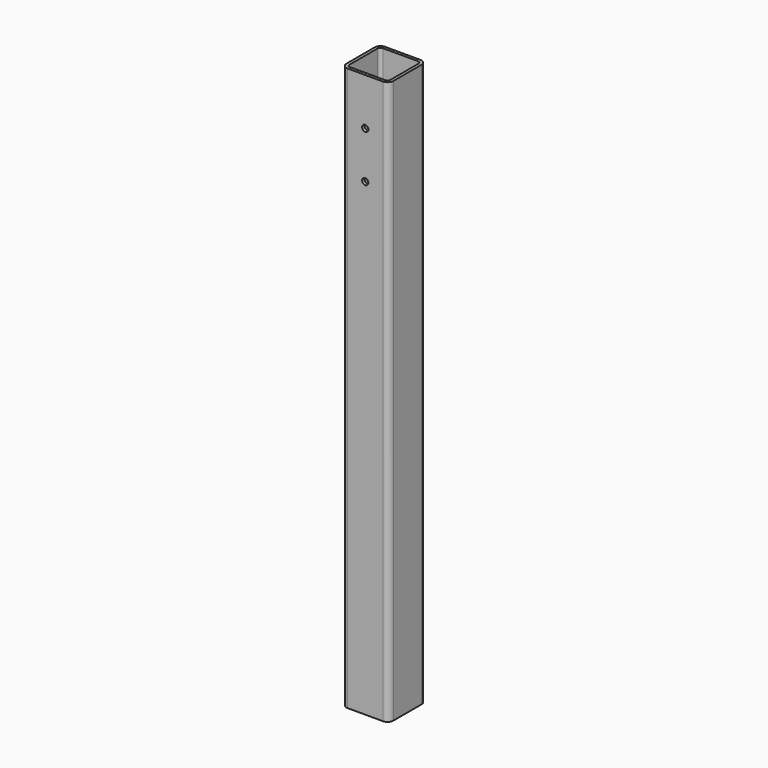
from build123d import *

# Parameters (mm, degrees)
F0_W          = 101.6
F0_H          = 101.6
F1_DEPTH      = 609.6
F2_R          = 12.7
F4_DEPTH      = 609.601
F4_DEPTH_BACK = 609.601
F6_D          = 13.49248


with BuildPart() as f1:
    # F0 (on Top) → F1 (new body, symmetric)
    with BuildSketch(Plane.XY):
        Rectangle(F0_W, F0_H)
    extrude(amount=F1_DEPTH, both=True)

    # F2
    f2_edges = [f1.edges().sort_by_distance(p)[0] for p in [
        (-50.8, 50.8, 0),
        (50.8, 50.8, 0),
        (50.8, -50.8, 0),
        (-50.8, -50.8, 0),
    ]]
    fillet(f2_edges, radius=F2_R)

    # F3 (on Top) → F4 (cut, two sides)
    with BuildSketch(Plane.XY) as f4_sk:
        with BuildLine():
            Line((38.1, 44.45), (-38.1, 44.45))
            ThreePointArc((-38.1, 44.45), (-42.5901280605, 42.5901280605), (-44.45, 38.1))
            Line((-44.45, 38.1), (-44.45, -38.1))
            ThreePointArc((-44.45, -38.1), (-42.5901280605, -42.5901280605), (-38.1, -44.45))
            Line((-38.1, -44.45), (38.1, -44.45))
            ThreePointArc((38.1, -44.45), (42.5901280605, -42.5901280605), (44.45, -38.1))
            Line((44.45, -38.1), (44.45, 38.1))
            ThreePointArc((44.45, 38.1), (42.5901280605, 42.5901280605), (38.1, 44.45))
        make_face()
    extrude(amount=-F4_DEPTH, mode=Mode.SUBTRACT)
    extrude(f4_sk.sketch, amount=F4_DEPTH_BACK, mode=Mode.SUBTRACT)

    # F6 (through all)
    with Locations(Plane.XZ.offset(50.8)):
        with Locations((0, 508), (0, 406.4)):
            Hole(F6_D / 2)


solid = f1.part
